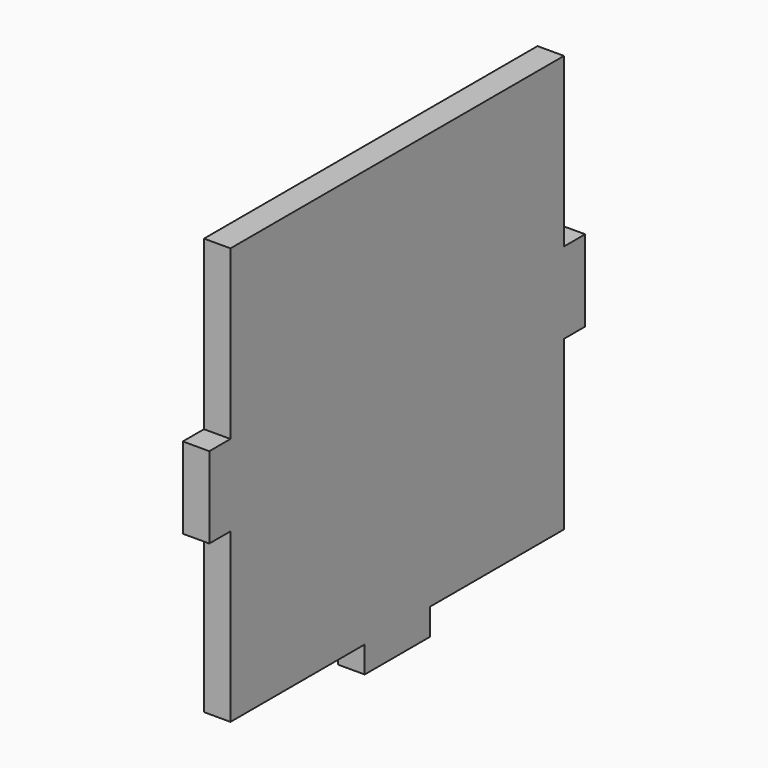
from build123d import *

# Parameters (mm, degrees)
F0_W     = 6.35
F0_H     = 19.5
F0_W_2   = 19.5
F0_H_2   = 6.35
F1_DEPTH = 6.35


with BuildPart() as f1:
    # F0 (on Right) → F1 (new body)
    with BuildSketch(Plane.YZ):
        Polygon((50, 9.75), (50, 50), (-50, 50), (-50, 9.75), (-50, -9.75), (-50, -50), (-9.75, -50), (9.75, -50), (50, -50), (50, -9.75), align=None)
        with Locations((53.175, 0)):
            Rectangle(F0_W, F0_H)
        with Locations((-53.175, 0)):
            Rectangle(F0_W, F0_H)
        with Locations((0, -53.175)):
            Rectangle(F0_W_2, F0_H_2)
    extrude(amount=F1_DEPTH)


solid = f1.part
